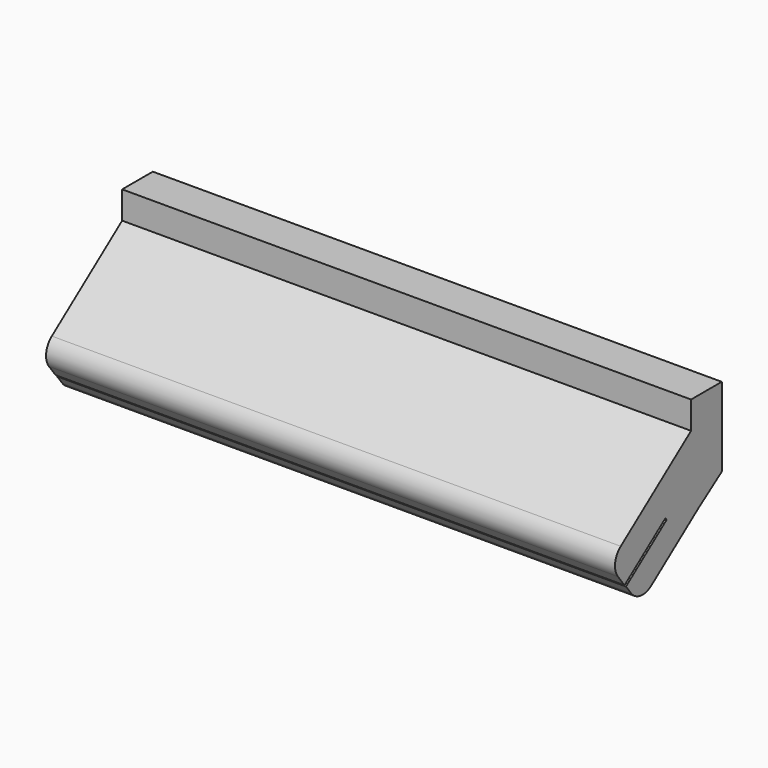
from build123d import *

# Parameters (mm, degrees)
F1_DEPTH = 120.523
F2_R     = 3.81


with BuildPart() as f1:
    # F0 (on Right) → F1 (new body)
    with BuildSketch(Plane.YZ):
        Polygon((8.171235, 5.354634), (0, 16.249614), (-21.666151, 0), (-17.617675, -5.397966), (-6.796981, 2.717555), (-6.470074, 2.281679), (-17.229717, -5.788053), (-13.594393, -10.63515), (1.864555, 0.959061), align=None)
        Polygon((0, 22.087431), (0, 16.249614), (8.171235, 5.354634), (8.171235, 21.347754), (8.125494, 22.087431), align=None)
    extrude(amount=F1_DEPTH)

    # F2
    f2_edges = [f1.edges().sort_by_distance(p)[0] for p in [
        (60.2615, -21.666151, 0),
        (60.2615, -13.594393, -10.63515),
    ]]
    fillet(f2_edges, radius=F2_R)


solid = f1.part
